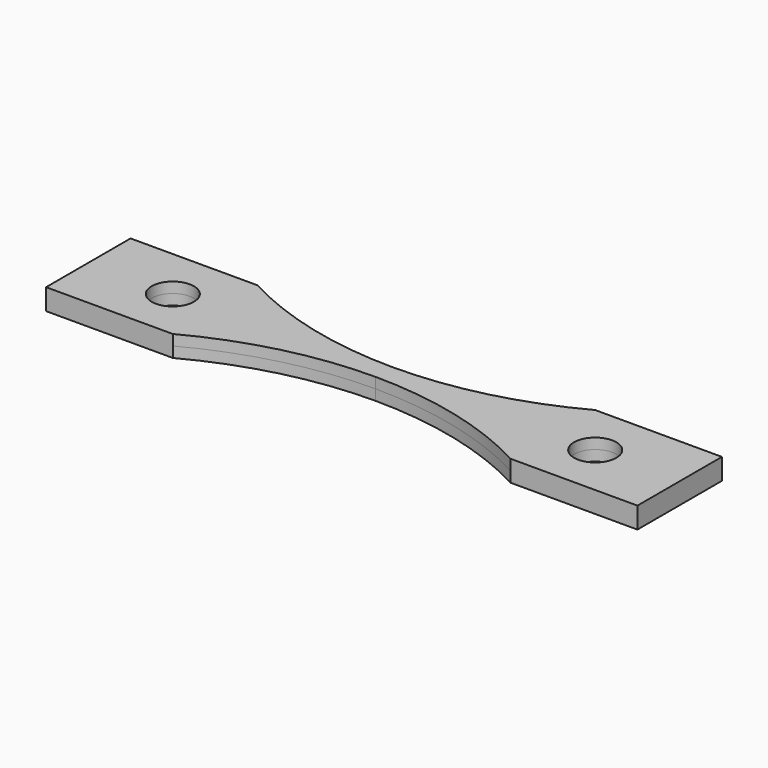
from build123d import *

# Parameters (mm, degrees)
F0_R     = 0.5
F1_DEPTH = 0.25


with BuildPart() as f1:
    # F0 (on Top) → F1 (new body, symmetric)
    with BuildSketch(Plane.XY):
        with BuildLine():
            Line((-7, 1.25), (-7, 0))
            Line((-7, 0), (-7, -1.25))
            Line((-7, -1.25), (-4, -1.25))
            ThreePointArc((-4, -1.25), (-2.0615528128, -0.5037887488), (0, -0.25))
            ThreePointArc((0, -0.25), (2.0615528128, -0.5037887488), (4, -1.25))
            Line((4, -1.25), (7, -1.25))
            Line((7, -1.25), (7, 0))
            Line((7, 0), (7, 1.25))
            Line((7, 1.25), (4, 1.25))
            ThreePointArc((4, 1.25), (2.0615528128, 0.5037887488), (0, 0.25))
            ThreePointArc((0, 0.25), (-2.0615528128, 0.5037887488), (-4, 1.25))
            Line((-4, 1.25), (-7, 1.25))
        make_face()
        with Locations((-5, 0)):
            Circle(F0_R, mode=Mode.SUBTRACT)
        with Locations((5, 0)):
            Circle(F0_R, mode=Mode.SUBTRACT)
    extrude(amount=F1_DEPTH, both=True)


solid = f1.part
